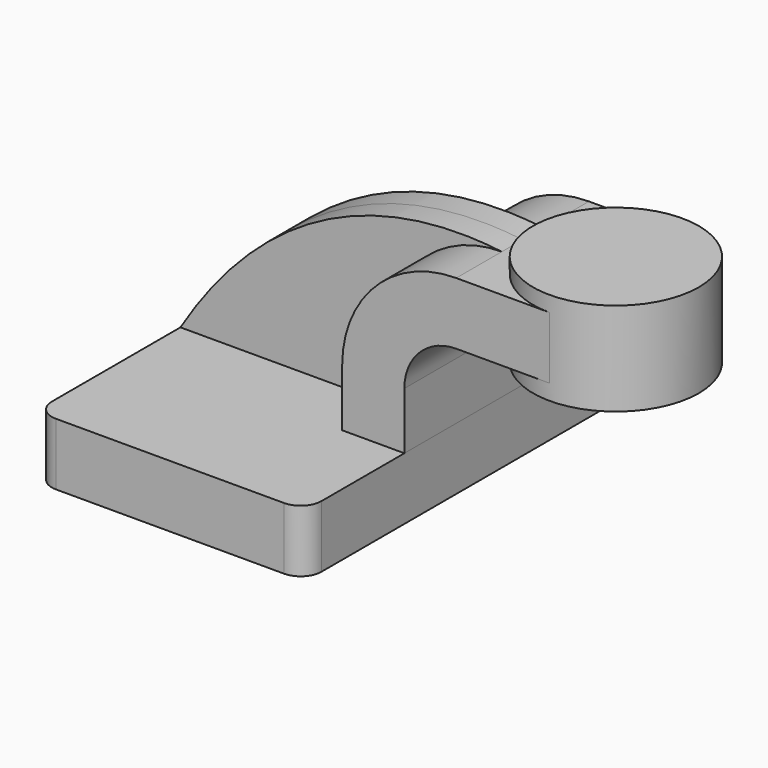
from build123d import *

# Parameters (mm, degrees)
F1_DEPTH = 63.5
F0_W     = 25.4
F0_H     = 19.05
F2_DEPTH = 25.4
F4_R     = 6.35
F5_DEPTH = 7.9375


with BuildPart() as f1:
    # F0 (on Front) → F1 (new body, symmetric)
    with BuildSketch(Plane.XZ):
        Polygon((-41.275, 9.525), (-41.275, -9.525), (41.275, -9.525), (41.275, 9.525), (22.225, 9.525), align=None)
    extrude(amount=F1_DEPTH, both=True)

    # F4
    f4_edges = [f1.edges().sort_by_distance(p)[0] for p in [
        (41.275, -63.5, 0),
        (-41.275, -63.5, 0),
        (41.275, 63.5, 0),
        (-41.275, 63.5, 0),
    ]]
    fillet(f4_edges, radius=F4_R)


with BuildPart() as f2:
    # F0 (on Front) → F2 (new body, symmetric)
    with BuildSketch(Plane.XZ):
        with BuildLine():
            Line((22.225, 9.525), (41.275, 9.525))
            Line((41.275, 9.525), (41.275, 27.0002))
            ThreePointArc((41.275, 27.0002), (45.9246798487, 38.2255201513), (57.15, 42.8752))
            Line((57.15, 42.8752), (60.325, 42.8752))
            Line((60.325, 42.8752), (60.325, 61.9252))
            Line((60.325, 61.9252), (57.15, 61.9252))
            ThreePointArc((57.15, 61.9252), (32.4542956671, 51.6959043329), (22.225, 27.0002))
            Line((22.225, 27.0002), (22.225, 9.525))
        make_face()
        with Locations((73.025, 52.4002)):
            Rectangle(F0_W, F0_H)
    extrude(amount=F2_DEPTH, both=True)

    # F0 (on Front) → F3 (revolve)
    with BuildSketch(Plane.XZ):
        Polygon((85.725, 66.675), (85.725, 61.9252), (85.725, 42.8752), (85.725, 38.1), (111.125, 38.1), (111.125, 66.675), align=None)
    revolve(axis=Axis((85.725, 0, 52.3875), (0, 0, 1)))


with BuildPart() as f5:
    # F0 (on Front) → F5 (new body, symmetric)
    with BuildSketch(Plane.XZ):
        with BuildLine():
            add(Edge.make_bspline(
                [(-41.275, 9.525), (-13.2558885962, 55.2299320698), (23.9428803325, 65.9482255578), (57.15, 61.9252)],
                knots=[0, 0, 0, 0, 111.5045361635, 111.5045361635, 111.5045361635, 111.5045361635], degree=3))
            Line((-41.275, 9.525), (22.225, 9.525))
            Line((22.225, 9.525), (22.225, 27.0002))
            ThreePointArc((22.225, 27.0002), (32.4542956671, 51.6959043329), (57.15, 61.9252))
        make_face()
    extrude(amount=F5_DEPTH, both=True)


solid = Compound([f1.part, f2.part, f5.part])
